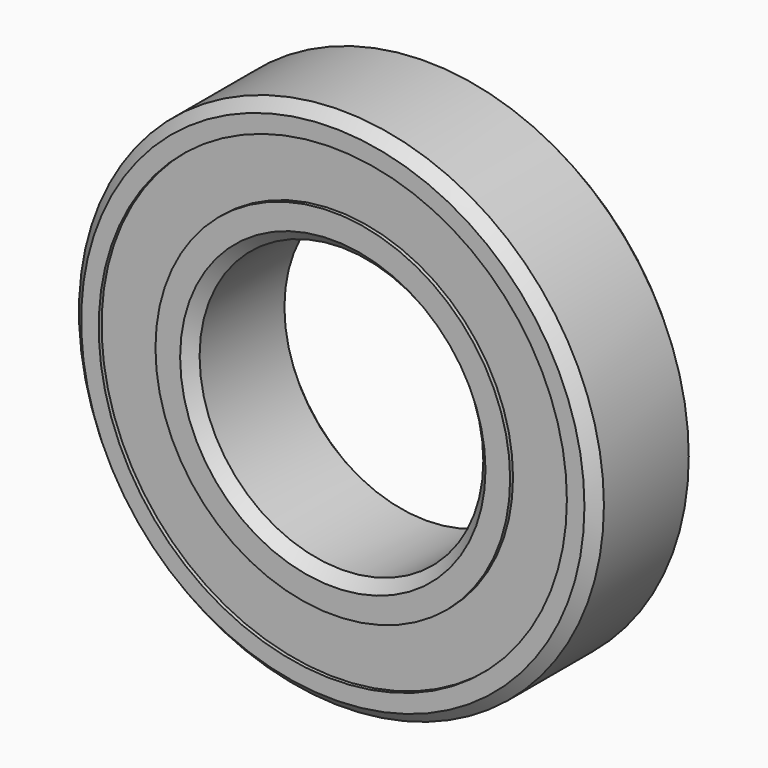
from build123d import *

# Parameters (mm, degrees)
F0_R     = 18.5
F0_R_2   = 10
F1_DEPTH = 9
F2_SIZE  = 0.762
F3_R     = 16.5
F3_R_2   = 12.5
F4_DEPTH = 0.254
F5_R     = 16.5
F5_R_2   = 12.5
F6_DEPTH = 0.254


with BuildPart() as f1:
    # F0 (on Front) → F1 (new body)
    with BuildSketch(Plane.XZ):
        Circle(F0_R)
        Circle(F0_R_2, mode=Mode.SUBTRACT)
    extrude(amount=F1_DEPTH)

    # F2
    f2_edges = [f1.edges().sort_by_distance(p)[0] for p in [
        (18.5, -4.5, 0),
        (-18.5, 0, 0),
        (-18.5, -9, 0),
        (10, -4.5, 0),
        (-10, 0, 0),
        (-10, -9, 0),
    ]]
    chamfer(f2_edges, length=F2_SIZE)

    # F3 (on face) → F4 (cut)
    with BuildSketch(Plane(origin=(0, 0, 0), x_dir=(-1, 0, 0), z_dir=(0, 1, 0))):
        Circle(F3_R)
        Circle(F3_R_2, mode=Mode.SUBTRACT)
    extrude(amount=-F4_DEPTH, mode=Mode.SUBTRACT)

    # F5 (on face) → F6 (cut)
    with BuildSketch(Plane.XZ.offset(9)):
        Circle(F5_R)
        Circle(F5_R_2, mode=Mode.SUBTRACT)
    extrude(amount=-F6_DEPTH, mode=Mode.SUBTRACT)


solid = f1.part
